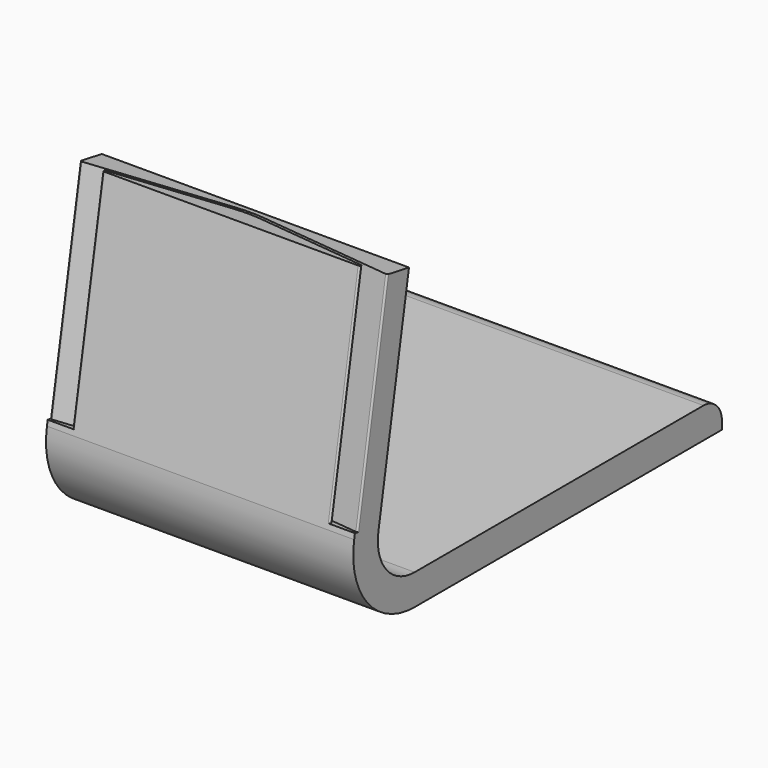
from build123d import *

# Parameters (mm, degrees)
SKETCH001_W  = 40
SKETCH001_H  = 4
POCKET_DEPTH = 28
FILLET_R     = 0.2
FILLET001_R  = 3


with BuildPart() as part:
    # AdditivePipe: sweep along a path in Sketch
    with BuildLine(Plane.YZ) as additivepipe_path:
        Line((5.1355433024, 40), (0.1519170577, 11.7364510822))
        ThreePointArc((0.1519170577, 11.7364510822), (2.3395530749, 3.5721268753), (9.9999610722, 1e-10))
        Line((9.9999610722, 0), (60, 0))
    # Sketch001 (on DatumPlane) → AdditivePipe (sweep)
    with BuildSketch(Plane.XZ.offset(-60)):
        with Locations((-20, 2)):
            Rectangle(SKETCH001_W, SKETCH001_H)
    sweep(path=additivepipe_path.line)

    # Sketch002 (on Face1 of AdditivePipe) → Pocket (cut)
    with BuildSketch(Plane(origin=(0, 65.1859051246, 29.411935024), x_dir=(-1, 0, 0), z_dir=(0, 0.1736412746, 0.9848089702))):
        with BuildLine():
            Line((40, 60.5766600833), (21.8489180566, 57.9426567644))
            ThreePointArc((18.1510819434, 57.9426567644), (20, 57.8092023582), (21.8489180566, 57.9426567644))
            Line((18.1510819434, 57.9426567644), (0, 60.5766600833))
            Line((0, 60.5766600833), (0, 61.0766600833))
            Line((0, 61.0766600833), (18.2263242344, 58.4369629425))
            ThreePointArc((18.2263242344, 58.4369629425), (20, 58.3091897988), (21.7736757656, 58.4369629425))
            Line((21.7736757656, 58.4369629425), (40, 61.0766600833))
            Line((40, 61.0766600833), (40, 60.5766600833))
        make_face()
    extrude(amount=-POCKET_DEPTH, mode=Mode.SUBTRACT)

    # Fillet
    fillet_edges = [part.edges().sort_by_distance(p)[0] for p in [
        (-39.310207, 2.704469, 26.212691),
        (-0.689793, 2.704469, 26.212691),
        (0, 3.098489, 26.143218),
        (-40, 3.098489, 26.143218),
    ]]
    fillet(fillet_edges, radius=FILLET_R)

    # Fillet001
    fillet001_edges = [part.edges().sort_by_distance(p)[0] for p in [
        (-20, 60, 4),
    ]]
    fillet(fillet001_edges, radius=FILLET001_R)


solid = part.part
